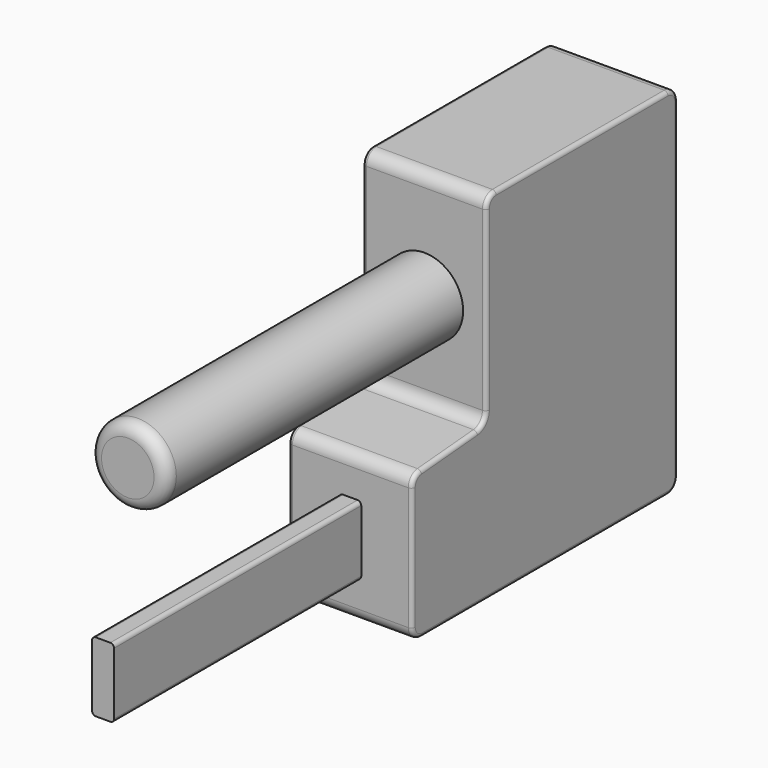
from build123d import *

# Parameters (mm, degrees)
F1_DEPTH = 25.4
F2_R     = 5.08
F3_R     = 1.5875
F4_W     = 9
F4_H     = 28.575
F5_DEPTH = 127
F6_R     = 1.524
F7_R     = 15.875
F8_DEPTH = 152.4
F9_R     = 5.08


with BuildPart() as f1:
    # F0 (on Right) → F1 (new body, symmetric)
    with BuildSketch(Plane.YZ):
        Polygon((68.2625, -73.025), (68.2625, 73.025), (-30.1625, 73.025), (-30.1625, -9.525), (-68.2625, -12.7), (-68.2625, -73.025), align=None)
    extrude(amount=F1_DEPTH, both=True)

    # F2
    f2_edges = [f1.edges().sort_by_distance(p)[0] for p in [
        (0, -68.2625, -12.7),
        (0, -30.1625, -9.525),
        (0, -30.1625, 73.025),
        (0, 68.2625, 73.025),
        (0, 68.2625, -73.025),
        (0, -68.2625, -73.025),
    ]]
    fillet(f2_edges, radius=F2_R)

    # F3
    f3_edges = [f1.edges().sort_by_distance(p)[0] for p in [
        (25.4, -49.2125, -11.1125),
        (-25.4, -49.2125, -11.1125),
    ]]
    fillet(f3_edges, radius=F3_R)

    # F4 (on face) → F5 (join)
    with BuildSketch(Plane.XZ.offset(68.2625)):
        with Locations((0, -42.8625)):
            Rectangle(F4_W, F4_H)
    extrude(amount=F5_DEPTH)

    # F6
    f6_edges = [f1.edges().sort_by_distance(p)[0] for p in [
        (4.5, -131.7625, -28.575),
        (-4.5, -131.7625, -28.575),
        (4.5, -131.7625, -57.15),
        (-4.5, -131.7625, -57.15),
    ]]
    fillet(f6_edges, radius=F6_R)

    # F7 (on face) → F8 (join)
    with BuildSketch(Plane.XZ.offset(30.1625)):
        with Locations((0, 28.575)):
            Circle(F7_R)
    extrude(amount=F8_DEPTH)

    # F9
    f9_edges = [f1.edges().sort_by_distance(p)[0] for p in [
        (-15.875, -182.5625, 28.575),
    ]]
    fillet(f9_edges, radius=F9_R)


solid = f1.part
